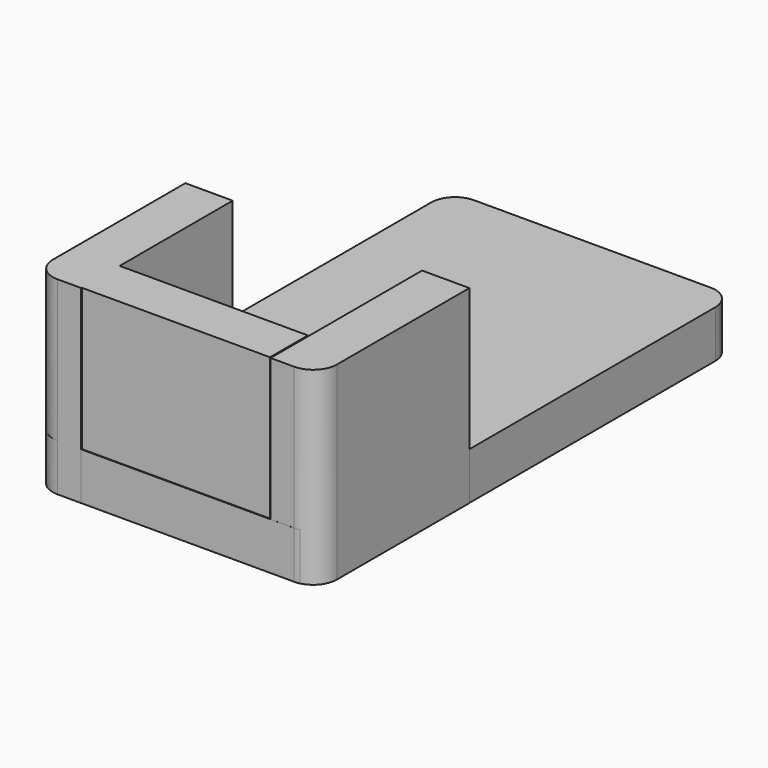
from build123d import *

# Parameters (mm, degrees)
F1_DEPTH = 12.7
F3_DEPTH = 50.8
F4_W     = 50.8
F4_H     = 12.7
F5_DEPTH = 50.8


with BuildPart() as f1:
    # F0 (on Top) → F1 (new body)
    with BuildSketch(Plane.XY):
        with BuildLine():
            ThreePointArc((38.1, 63.5), (36.240128, 67.990128), (31.75, 69.85))
            Line((31.75, 69.85), (-31.75, 69.85))
            ThreePointArc((-31.75, 69.85), (-36.240128, 67.990128), (-38.1, 63.5))
            Line((-38.1, 63.5), (-38.1, -63.5))
            ThreePointArc((-38.1, -63.5), (-36.240128, -67.990128), (-31.75, -69.85))
            Line((-31.75, -69.85), (31.75, -69.85))
            ThreePointArc((31.75, -69.85), (36.240128, -67.990128), (38.1, -63.5))
            Line((38.1, -63.5), (38.1, 63.5))
        make_face()
    extrude(amount=F1_DEPTH)

    # F2 (on Top) → F3 (join)
    with BuildSketch(Plane.XY):
        with BuildLine():
            Line((-25.359782, -19.050035), (-38.059782, -19.050035))
            Line((-38.059782, -19.050035), (-38.059782, -63.500035))
            ThreePointArc((-38.059782, -63.500035), (-36.19991, -67.990163), (-31.709782, -69.850035))
            Line((-31.709782, -69.850035), (-25.359782, -69.850035))
            Line((-25.359782, -69.850035), (-25.359782, -19.050035))
        make_face()
        with BuildLine():
            Line((38.140218, -19.040707), (25.440218, -19.040707))
            Line((25.440218, -19.040707), (25.440218, -69.840707))
            Line((25.440218, -69.840707), (31.790218, -69.840707))
            ThreePointArc((31.790218, -69.840707), (36.280346, -67.980835), (38.140218, -63.490707))
            Line((38.140218, -63.490707), (38.140218, -19.040707))
        make_face()
    extrude(amount=F3_DEPTH)

    # F4 (on Top) → F5 (join)
    with BuildSketch(Plane.XY):
        with Locations((-0.266136, -63.306491)):
            Rectangle(F4_W, F4_H)
    extrude(amount=F5_DEPTH)


solid = f1.part
